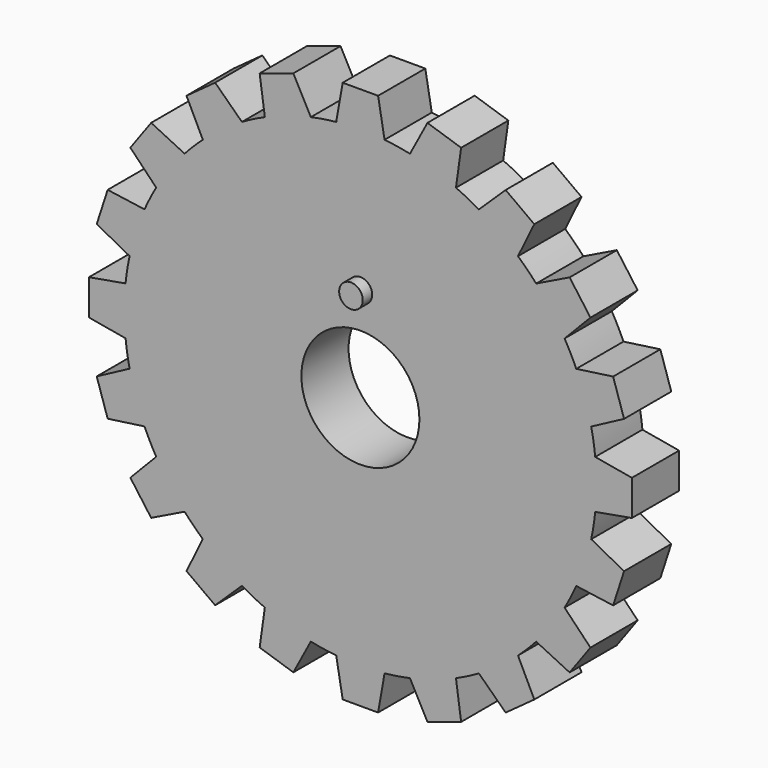
from build123d import *

# Parameters (mm, degrees)
F0_R     = 5
F1_DEPTH = 5
F2_R     = 1
F3_DEPTH = 1


with BuildPart() as f1:
    # F0 (on Front) → F1 (new body)
    with BuildSketch(Plane.XZ):
        with BuildLine():
            ThreePointArc((19.894917, -2.04751), (19.973712, -1.025102), (20, 0))
            ThreePointArc((20, 0), (19.973712, 1.025102), (19.894917, 2.04751))
            ThreePointArc((19.894917, 2.04751), (19.753767, 3.128689), (19.553905, 4.20057))
            ThreePointArc((19.553905, 4.20057), (19.02113, 6.18034), (18.288475, 8.095165))
            ThreePointArc((18.288475, 8.095165), (17.82013, 9.07981), (17.298822, 10.037468))
            ThreePointArc((17.298822, 10.037468), (16.18034, 11.755705), (14.891829, 13.350409))
            ThreePointArc((14.891829, 13.350409), (14.142136, 14.142136), (13.350409, 14.891829))
            ThreePointArc((13.350409, 14.891829), (11.755705, 16.18034), (10.037468, 17.298822))
            ThreePointArc((10.037468, 17.298822), (9.07981, 17.82013), (8.095165, 18.288475))
            ThreePointArc((8.095165, 18.288475), (6.18034, 19.02113), (4.20057, 19.553905))
            ThreePointArc((4.20057, 19.553905), (3.128689, 19.753767), (2.04751, 19.894917))
            ThreePointArc((2.04751, 19.894917), (0, 20), (-2.04751, 19.894917))
            ThreePointArc((-2.04751, 19.894917), (-3.128689, 19.753767), (-4.20057, 19.553905))
            ThreePointArc((-4.20057, 19.553905), (-6.18034, 19.02113), (-8.095165, 18.288475))
            ThreePointArc((-8.095165, 18.288475), (-9.07981, 17.82013), (-10.037468, 17.298822))
            ThreePointArc((-10.037468, 17.298822), (-11.755705, 16.18034), (-13.350409, 14.891829))
            ThreePointArc((-13.350409, 14.891829), (-14.142136, 14.142136), (-14.891829, 13.350409))
            ThreePointArc((-14.891829, 13.350409), (-16.18034, 11.755705), (-17.298822, 10.037468))
            ThreePointArc((-17.298822, 10.037468), (-17.82013, 9.07981), (-18.288475, 8.095165))
            ThreePointArc((-18.288475, 8.095165), (-19.02113, 6.18034), (-19.553905, 4.20057))
            ThreePointArc((-19.553905, 4.20057), (-19.753767, 3.128689), (-19.894917, 2.04751))
            ThreePointArc((-19.894917, 2.04751), (-20, 0), (-19.894917, -2.04751))
            ThreePointArc((-19.894917, -2.04751), (-19.753767, -3.128689), (-19.553905, -4.20057))
            ThreePointArc((-19.553905, -4.20057), (-19.02113, -6.18034), (-18.288475, -8.095165))
            ThreePointArc((-18.288475, -8.095165), (-17.82013, -9.07981), (-17.298822, -10.037468))
            ThreePointArc((-17.298822, -10.037468), (-16.18034, -11.755705), (-14.891829, -13.350409))
            ThreePointArc((-14.891829, -13.350409), (-14.142136, -14.142136), (-13.350409, -14.891829))
            ThreePointArc((-13.350409, -14.891829), (-11.755705, -16.18034), (-10.037468, -17.298822))
            ThreePointArc((-10.037468, -17.298822), (-9.07981, -17.82013), (-8.095165, -18.288475))
            ThreePointArc((-8.095165, -18.288475), (-6.18034, -19.02113), (-4.20057, -19.553905))
            ThreePointArc((-4.20057, -19.553905), (-3.128689, -19.753767), (-2.04751, -19.894917))
            ThreePointArc((-2.04751, -19.894917), (0, -20), (2.04751, -19.894917))
            ThreePointArc((2.04751, -19.894917), (3.128689, -19.753767), (4.20057, -19.553905))
            ThreePointArc((4.20057, -19.553905), (6.18034, -19.02113), (8.095165, -18.288475))
            ThreePointArc((8.095165, -18.288475), (9.07981, -17.82013), (10.037468, -17.298822))
            ThreePointArc((10.037468, -17.298822), (11.755705, -16.18034), (13.350409, -14.891829))
            ThreePointArc((13.350409, -14.891829), (14.142136, -14.142136), (14.891829, -13.350409))
            ThreePointArc((14.891829, -13.350409), (16.18034, -11.755705), (17.298822, -10.037468))
            ThreePointArc((17.298822, -10.037468), (17.82013, -9.07981), (18.288475, -8.095165))
            ThreePointArc((18.288475, -8.095165), (19.02113, -6.18034), (19.553905, -4.20057))
            ThreePointArc((19.553905, -4.20057), (19.753767, -3.128689), (19.894917, -2.04751))
        make_face()
        Circle(F0_R, mode=Mode.SUBTRACT)
        with BuildLine():
            ThreePointArc((19.894917, 2.04751), (19.973712, 1.025102), (20, 0))
            ThreePointArc((20, 0), (19.973712, -1.025102), (19.894917, -2.04751))
            Line((19.894917, -2.04751), (23, -1.5))
            Line((23, -1.5), (23, 1.5))
            Line((23, 1.5), (19.894917, 2.04751))
        make_face()
        with BuildLine():
            ThreePointArc((18.288475, 8.095165), (19.02113, 6.18034), (19.553905, 4.20057))
            Line((19.553905, 4.20057), (22.337825, 5.680806))
            Line((22.337825, 5.680806), (21.410774, 8.533976))
            Line((21.410774, 8.533976), (18.288475, 8.095165))
        make_face()
        with BuildLine():
            Line((22.337825, -5.680806), (19.553905, -4.20057))
            ThreePointArc((19.553905, -4.20057), (19.02113, -6.18034), (18.288475, -8.095165))
            Line((18.288475, -8.095165), (21.410774, -8.533976))
            Line((21.410774, -8.533976), (22.337825, -5.680806))
        make_face()
        with BuildLine():
            ThreePointArc((14.891829, 13.350409), (16.18034, 11.755705), (17.298822, 10.037468))
            Line((17.298822, 10.037468), (19.489069, 12.305535))
            Line((19.489069, 12.305535), (17.725713, 14.732586))
            Line((17.725713, 14.732586), (14.891829, 13.350409))
        make_face()
        with BuildLine():
            Line((19.489069, -12.305535), (17.298822, -10.037468))
            ThreePointArc((17.298822, -10.037468), (16.18034, -11.755705), (14.891829, -13.350409))
            Line((14.891829, -13.350409), (17.725713, -14.732586))
            Line((17.725713, -14.732586), (19.489069, -12.305535))
        make_face()
        with BuildLine():
            ThreePointArc((10.037468, 17.298822), (11.755705, 16.18034), (13.350409, 14.891829))
            Line((13.350409, 14.891829), (14.732586, 17.725713))
            Line((14.732586, 17.725713), (12.305535, 19.489069))
            Line((12.305535, 19.489069), (10.037468, 17.298822))
        make_face()
        with BuildLine():
            Line((14.732586, -17.725713), (13.350409, -14.891829))
            ThreePointArc((13.350409, -14.891829), (11.755705, -16.18034), (10.037468, -17.298822))
            Line((10.037468, -17.298822), (12.305535, -19.489069))
            Line((12.305535, -19.489069), (14.732586, -17.725713))
        make_face()
        with BuildLine():
            ThreePointArc((4.20057, 19.553905), (6.18034, 19.02113), (8.095165, 18.288475))
            Line((8.095165, 18.288475), (8.533976, 21.410774))
            Line((8.533976, 21.410774), (5.680806, 22.337825))
            Line((5.680806, 22.337825), (4.20057, 19.553905))
        make_face()
        with BuildLine():
            Line((8.533976, -21.410774), (8.095165, -18.288475))
            ThreePointArc((8.095165, -18.288475), (6.18034, -19.02113), (4.20057, -19.553905))
            Line((4.20057, -19.553905), (5.680806, -22.337825))
            Line((5.680806, -22.337825), (8.533976, -21.410774))
        make_face()
        with BuildLine():
            ThreePointArc((-2.04751, 19.894917), (0, 20), (2.04751, 19.894917))
            Line((2.04751, 19.894917), (1.5, 23))
            Line((1.5, 23), (-1.5, 23))
            Line((-1.5, 23), (-2.04751, 19.894917))
        make_face()
        with BuildLine():
            Line((1.5, -23), (2.04751, -19.894917))
            ThreePointArc((2.04751, -19.894917), (0, -20), (-2.04751, -19.894917))
            Line((-2.04751, -19.894917), (-1.5, -23))
            Line((-1.5, -23), (1.5, -23))
        make_face()
        with BuildLine():
            ThreePointArc((-8.095165, 18.288475), (-6.18034, 19.02113), (-4.20057, 19.553905))
            Line((-4.20057, 19.553905), (-5.680806, 22.337825))
            Line((-5.680806, 22.337825), (-8.533976, 21.410774))
            Line((-8.533976, 21.410774), (-8.095165, 18.288475))
        make_face()
        with BuildLine():
            Line((-5.680806, -22.337825), (-4.20057, -19.553905))
            ThreePointArc((-4.20057, -19.553905), (-6.18034, -19.02113), (-8.095165, -18.288475))
            Line((-8.095165, -18.288475), (-8.533976, -21.410774))
            Line((-8.533976, -21.410774), (-5.680806, -22.337825))
        make_face()
        with BuildLine():
            ThreePointArc((-13.350409, 14.891829), (-11.755705, 16.18034), (-10.037468, 17.298822))
            Line((-10.037468, 17.298822), (-12.305535, 19.489069))
            Line((-12.305535, 19.489069), (-14.732586, 17.725713))
            Line((-14.732586, 17.725713), (-13.350409, 14.891829))
        make_face()
        with BuildLine():
            Line((-12.305535, -19.489069), (-10.037468, -17.298822))
            ThreePointArc((-10.037468, -17.298822), (-11.755705, -16.18034), (-13.350409, -14.891829))
            Line((-13.350409, -14.891829), (-14.732586, -17.725713))
            Line((-14.732586, -17.725713), (-12.305535, -19.489069))
        make_face()
        with BuildLine():
            ThreePointArc((-17.298822, 10.037468), (-16.18034, 11.755705), (-14.891829, 13.350409))
            Line((-14.891829, 13.350409), (-17.725713, 14.732586))
            Line((-17.725713, 14.732586), (-19.489069, 12.305535))
            Line((-19.489069, 12.305535), (-17.298822, 10.037468))
        make_face()
        with BuildLine():
            Line((-17.725713, -14.732586), (-14.891829, -13.350409))
            ThreePointArc((-14.891829, -13.350409), (-16.18034, -11.755705), (-17.298822, -10.037468))
            Line((-17.298822, -10.037468), (-19.489069, -12.305535))
            Line((-19.489069, -12.305535), (-17.725713, -14.732586))
        make_face()
        with BuildLine():
            ThreePointArc((-19.553905, 4.20057), (-19.02113, 6.18034), (-18.288475, 8.095165))
            Line((-18.288475, 8.095165), (-21.410774, 8.533976))
            Line((-21.410774, 8.533976), (-22.337825, 5.680806))
            Line((-22.337825, 5.680806), (-19.553905, 4.20057))
        make_face()
        with BuildLine():
            Line((-21.410774, -8.533976), (-18.288475, -8.095165))
            ThreePointArc((-18.288475, -8.095165), (-19.02113, -6.18034), (-19.553905, -4.20057))
            Line((-19.553905, -4.20057), (-22.337825, -5.680806))
            Line((-22.337825, -5.680806), (-21.410774, -8.533976))
        make_face()
        with BuildLine():
            ThreePointArc((-19.894917, -2.04751), (-20, 0), (-19.894917, 2.04751))
            Line((-19.894917, 2.04751), (-23, 1.5))
            Line((-23, 1.5), (-23, -1.5))
            Line((-23, -1.5), (-19.894917, -2.04751))
        make_face()
    extrude(amount=F1_DEPTH)

    # F2 (on face) → F3 (join)
    with BuildSketch(Plane.XZ.offset(5)):
        with Locations((0, 8)):
            Circle(F2_R)
    extrude(amount=F3_DEPTH)


solid = f1.part
